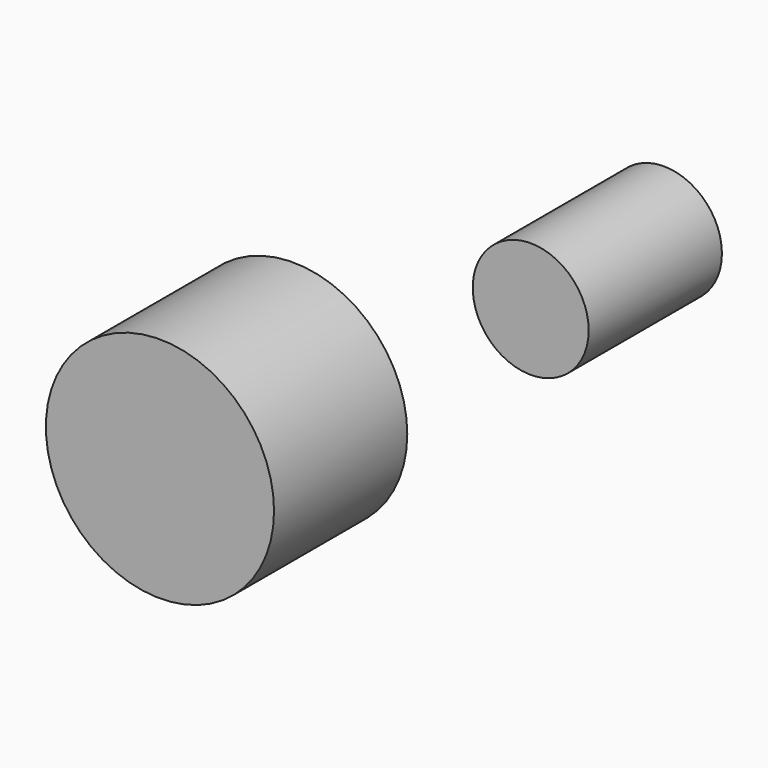
from build123d import *

# Parameters (mm, degrees)
F1_R     = 25.4
F0_R     = 12.905833
F2_DEPTH = 37.084


with BuildPart() as f2:
    # F1 (on Front) + F0 (on Front) → F2 (new body)
    with BuildSketch(Plane.XZ):
        with Locations((-130.439311, -7.772647)):
            Circle(F1_R)
    with BuildSketch(Plane.XZ):
        with Locations((-47.892176, 50.397001)):
            Circle(F0_R)
    extrude(amount=F2_DEPTH)


solid = f2.part
